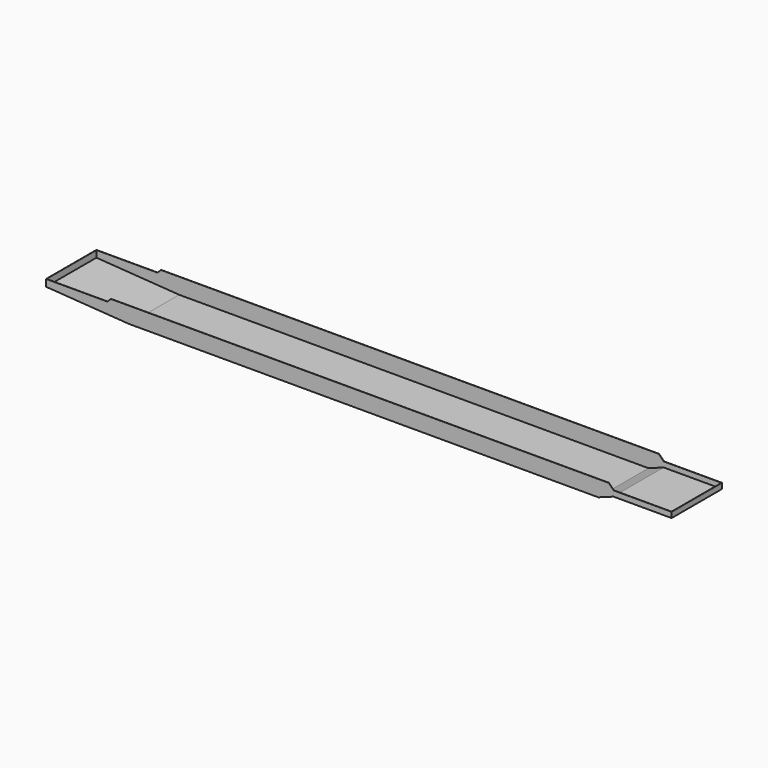
from build123d import *

# Parameters (mm, degrees)
EXTRUDE031_DEPTH = 452
EXTRUDE027_DEPTH = 455


with BuildPart() as extrude031:
    # Sketch042 → Extrude031 (new body, symmetric)
    with BuildSketch(Plane.XZ):
        Polygon((-522, -59), (-522, -336), (675.559692, -419), (7465.22, -419.729309), (7683.78, -339), (8522, -339), (8522, -59), align=None)
    extrude(amount=EXTRUDE031_DEPTH, both=True)


with BuildPart() as cut005:
    # Sketch029 → Extrude027 (new body, symmetric)
    with BuildSketch(Plane.XZ):
        Polygon((-525, -239), (362, -239), (412, -189), (7615, -189), (7688, -262), (8525, -262), (8525, -342), (7685, -342), (7465, -422), (675, -422), (-525, -339), align=None)
    extrude(amount=EXTRUDE027_DEPTH, both=True)

    # Cut005: cut Extrude031
    add(extrude031.part, mode=Mode.SUBTRACT)


solid = cut005.part
